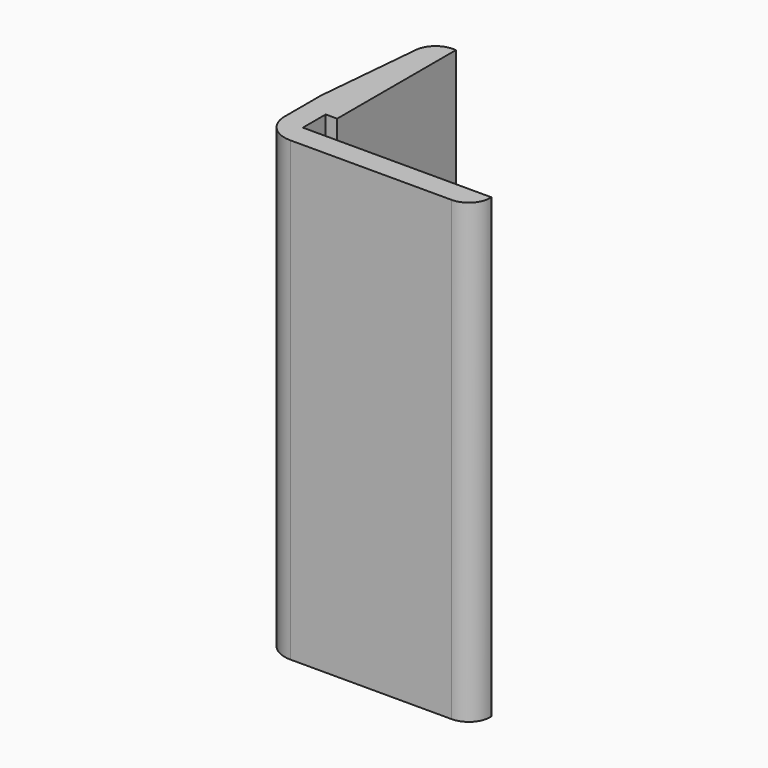
from build123d import *

# Parameters (mm, degrees)
PAD_DEPTH   = 160
FILLET_R    = 10
FILLET001_R = 7.5


with BuildPart() as part:
    # Sketch → Pad (new body)
    with BuildSketch(Plane.XY):
        Polygon((0, 0), (70, 0), (70, 8), (4, 8), (4, 18), (8, 18), (8, 70), (0, 70), (-4, 26), (-4, 0), align=None)
    extrude(amount=PAD_DEPTH)

    # Fillet
    fillet_edges = [part.edges().sort_by_distance(p)[0] for p in [
        (-4, 0, 80),
    ]]
    fillet(fillet_edges, radius=FILLET_R)

    # Fillet001
    fillet001_edges = [part.edges().sort_by_distance(p)[0] for p in [
        (0, 70, 80),
        (70, 0, 80),
    ]]
    fillet(fillet001_edges, radius=FILLET001_R)


solid = part.part
